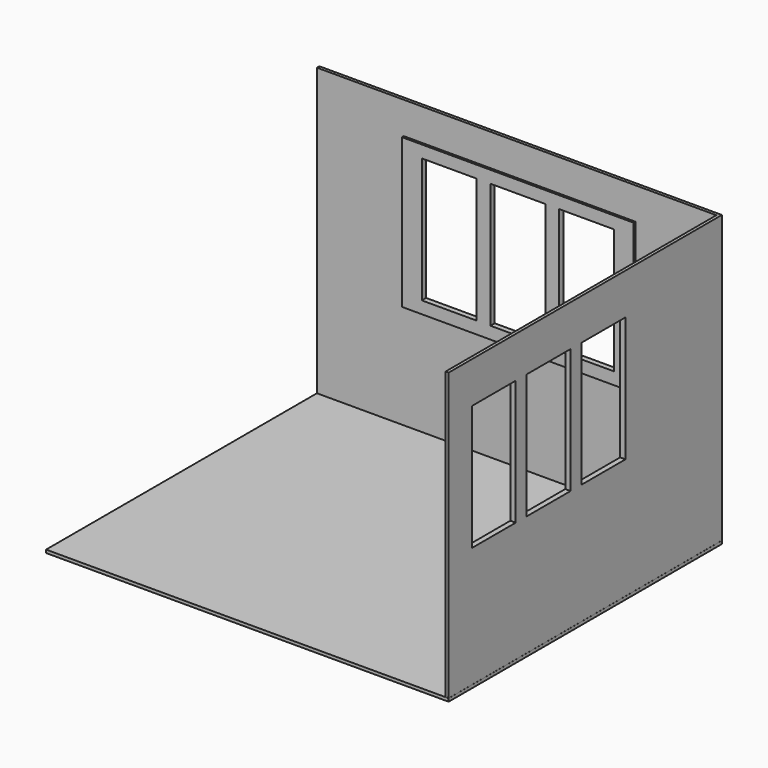
from build123d import *

# Parameters (mm, degrees)
F0_W      = 3327.4
F0_H      = 2387.6
F1_DEPTH  = 25.4
F2_W      = 1930.4
F2_H      = 1244.6
F2_W_2    = 457.2
F2_H_2    = 1041.4
F3_DEPTH  = 19.05
F4_DEPTH  = 25.4
F6_W      = 2844.8
F6_H      = 2387.6
F7_DEPTH  = 25.4
F8_W      = 457.2
F8_H      = 1041.4
F9_DEPTH  = 19.05
F10_DEPTH = 25.4
F11_W     = 3353.3191680908
F11_H     = 2845.4077243805
F12_DEPTH = 25.4


with BuildPart() as f1:
    # F0 (on Front) → F1 (new body)
    with BuildSketch(Plane.XZ):
        with Locations((1663.7, 1193.8)):
            Rectangle(F0_W, F0_H)
    extrude(amount=F1_DEPTH)

    # F2 (on face) → F3 (join)
    with BuildSketch(Plane.XZ.offset(25.4)):
        with Locations((1689.1, 1498.6)):
            Rectangle(F2_W, F2_H)
        with Locations((1117.6, 1498.6)):
            Rectangle(F2_W_2, F2_H_2, mode=Mode.SUBTRACT)
        with Locations((1689.1, 1498.6)):
            Rectangle(F2_W_2, F2_H_2, mode=Mode.SUBTRACT)
        with Locations((2260.6, 1498.6)):
            Rectangle(F2_W_2, F2_H_2, mode=Mode.SUBTRACT)
    extrude(amount=F3_DEPTH)

    # F4 (cut): faces of the model
    f4_faces = [f1.faces().sort_by_distance(p)[0] for p in [
        (1117.6, -25.4, 1498.6),
        (1689.1, -25.4, 1498.6),
        (2260.6, -25.4, 1498.6),
    ]]
    extrude(f4_faces, amount=-F4_DEPTH, mode=Mode.SUBTRACT)


with BuildPart() as f7:
    # F6 (on offset) → F7 (new body)
    with BuildSketch(Plane.YZ.offset(3352.8)):
        with Locations((-1422.4, 1193.8)):
            Rectangle(F6_W, F6_H)
    extrude(amount=-F7_DEPTH)

    # F8 (on face) → F9 (join)
    with BuildSketch(Plane(origin=(3327.4, 0, 0), x_dir=(0, -1, 0), z_dir=(-1, 0, 0))):
        Polygon((2768.6, 2146.3), (838.2, 2146.3), (838.2, 901.7), (1409.7, 901.7), (1981.2, 901.7), (2768.6, 901.7), align=None)
        with Locations((1231.9, 1524)):
            Rectangle(F8_W, F8_H, mode=Mode.SUBTRACT)
        with Locations((1803.4, 1524)):
            Rectangle(F8_W, F8_H, mode=Mode.SUBTRACT)
        with Locations((2374.9, 1524)):
            Rectangle(F8_W, F8_H, mode=Mode.SUBTRACT)
    extrude(amount=F9_DEPTH)

    # F10 (cut): faces of the model
    f10_faces = [f7.faces().sort_by_distance(p)[0] for p in [
        (3327.4, -1231.9, 1524),
        (3327.4, -1803.4, 1524),
        (3327.4, -2374.9, 1524),
    ]]
    extrude(f10_faces, amount=-F10_DEPTH, mode=Mode.SUBTRACT)


with BuildPart() as f12:
    # F11 (on Top) → F12 (new body)
    with BuildSketch(Plane.XY):
        with Locations((1676.6595840454, -1422.7038621902)):
            Rectangle(F11_W, F11_H)
    extrude(amount=-F12_DEPTH)


solid = Compound([f1.part, f7.part, f12.part])
